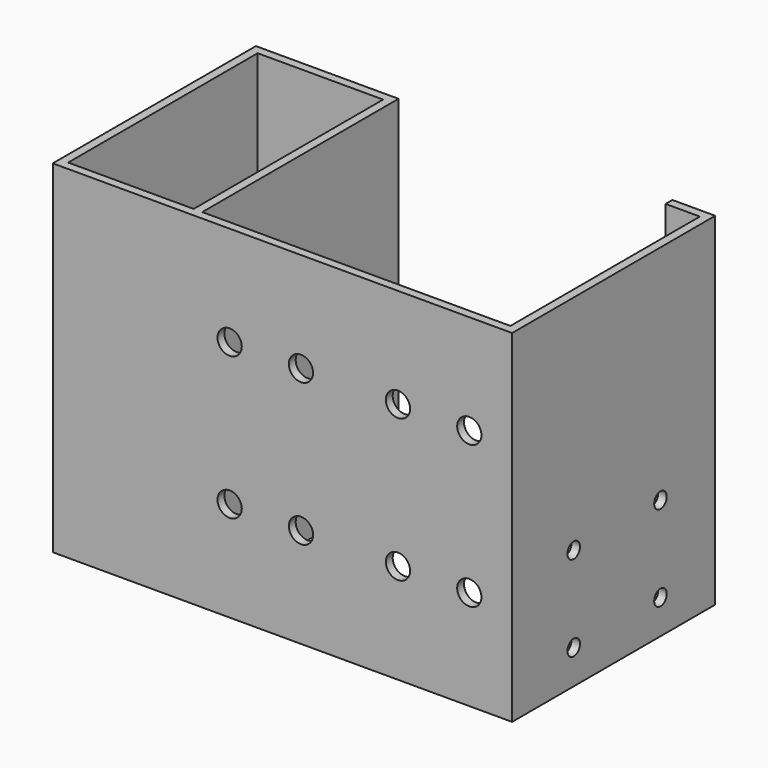
from build123d import *

# Parameters (mm, degrees)
SKETCH_W        = 44
SKETCH_H        = 83
PAD_DEPTH       = 120
SKETCH001_R     = 2.75
POCKET_DEPTH    = 3
SKETCH002_R     = 4.25
POCKET001_DEPTH = 3
SKETCH003_R     = 2.75
POCKET002_DEPTH = 3


with BuildPart() as part:
    # Sketch → Pad (new body)
    with BuildSketch(Plane.XY):
        Polygon((0, 0), (-161, 0), (-161, 89), (-111, 89), (-111, 3), (-3, 3), (-3, 86), (-15, 86), (-15, 89), (0, 89), align=None)
        with Locations((-136, 44.5)):
            Rectangle(SKETCH_W, SKETCH_H, mode=Mode.SUBTRACT)
    extrude(amount=PAD_DEPTH)

    # Sketch001 (on Face2 of Pad) → Pocket (cut)
    with BuildSketch(Plane.YZ):
        with Locations((27, 42)):
            Circle(SKETCH001_R)
        with Locations((65, 42)):
            Circle(SKETCH001_R)
        with Locations((27, 12)):
            Circle(SKETCH001_R)
        with Locations((65, 12)):
            Circle(SKETCH001_R)
    extrude(amount=-POCKET_DEPTH, mode=Mode.SUBTRACT)

    # Sketch002 (on Face6 of Pocket) → Pocket001 (cut)
    with BuildSketch(Plane.XZ):
        with Locations((-40, 85)):
            Circle(SKETCH002_R)
        with Locations((-15, 85)):
            Circle(SKETCH002_R)
        with Locations((-40, 35)):
            Circle(SKETCH002_R)
        with Locations((-15, 35)):
            Circle(SKETCH002_R)
        with Locations((-99, 85)):
            Circle(SKETCH002_R)
        with Locations((-74, 85)):
            Circle(SKETCH002_R)
        with Locations((-99, 35)):
            Circle(SKETCH002_R)
        with Locations((-74, 35)):
            Circle(SKETCH002_R)
    extrude(amount=-POCKET001_DEPTH, mode=Mode.SUBTRACT)

    # Sketch003 (on Face12 of Pocket001) → Pocket002 (cut)
    with BuildSketch(Plane(origin=(-161, 0, 0), x_dir=(0, -1, 0), z_dir=(-1, 0, 0))):
        with Locations((-66, 47)):
            Circle(SKETCH003_R)
        with Locations((-26, 47)):
            Circle(SKETCH003_R)
        with Locations((-66, 23)):
            Circle(SKETCH003_R)
        with Locations((-26, 23)):
            Circle(SKETCH003_R)
    extrude(amount=-POCKET002_DEPTH, mode=Mode.SUBTRACT)


solid = part.part
